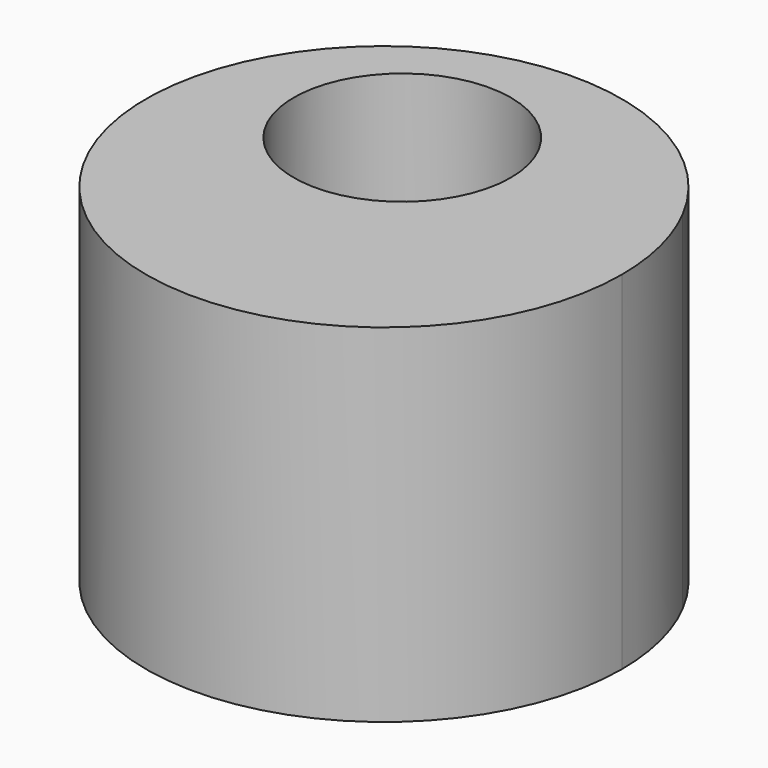
from build123d import *

# Parameters (mm, degrees)
F1_DEPTH = 25.4
F2_R     = 7.933646
F3_DEPTH = 17.78


with BuildPart() as f1:
    # F0 (on Top) → F1 (new body)
    with BuildSketch(Plane.XY):
        with BuildLine():
            ThreePointArc((-21.301848, 56.466112), (-53.648477, 44.356952), (-19.355485, 48.471175))
            ThreePointArc((-19.355485, 48.471175), (-19.849079, 52.585399), (-21.301848, 56.466112))
        make_face()
    extrude(amount=F1_DEPTH)

    # F2 (on face) → F3 (cut)
    with BuildSketch(Plane.XY.offset(25.4)):
        with Locations((-39.725896, 53.867199)):
            Circle(F2_R)
    extrude(amount=-F3_DEPTH, mode=Mode.SUBTRACT)


solid = f1.part
